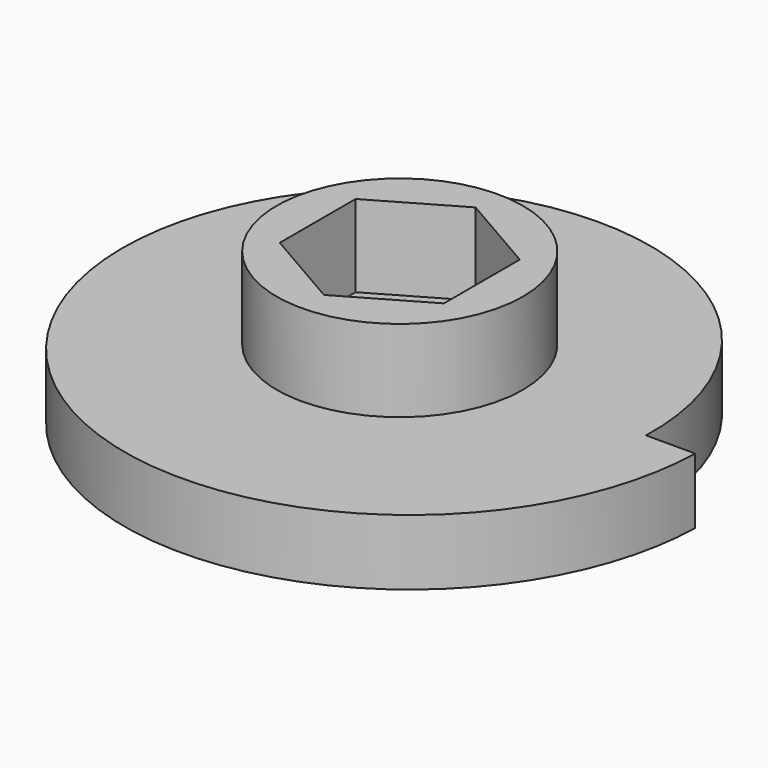
from build123d import *

# Parameters (mm, degrees)
PAD_DEPTH    = 8
SKETCH019_R  = 15
PAD010_DEPTH = 10
SKETCH020_R  = 3.2
POCKET_DEPTH = 18.001


with BuildPart() as part:
    # Sketch018 → Pad (new body)
    with BuildSketch(Plane.XY):
        with BuildLine():
            add(Edge.make_bspline(
                [(30, 0), (30.272727, 8.56798), (27.853744, 17.307319), (22.653329, 25.278439), (14.950718, 31.494746), (5.420543, 35.088391), (-4.927781, 35.491962), (-14.908573, 32.583746), (-23.388897, 26.726717), (-29.493664, 18.678196), (-32.727273, 9.424778), (-33.272727, -9.424778), (-30.584573, -19.020915), (-24.845816, -27.754875), (-16.372589, -34.546103), (-5.913321, -38.44936), (5.420559, -38.852932), (16.330444, -35.635102), (25.581384, -29.203153), (32.224493, -20.391792), (35.727273, -10.281576), (36, 0)],
                knots=[0, 0, 0, 0, 0, 0, 0, 0, 0, 0, 0, 0, 3.181133, 3.181133, 3.181133, 3.181133, 3.181133, 3.181133, 3.181133, 3.181133, 3.181133, 3.181133, 6.362265, 6.362265, 6.362265, 6.362265, 6.362265, 6.362265, 6.362265, 6.362265, 6.362265, 6.362265, 6.362265, 6.362265], degree=11))
            Line((36, 0), (30, 0))
        make_face()
    extrude(amount=PAD_DEPTH)

    # Sketch019 (on Face4 of Pad) → Pad010 (join)
    with BuildSketch(Plane.XY.offset(8)):
        Circle(SKETCH019_R)
        Polygon((0, -11.547005), (10, -5.773503), (10, 5.773503), (0, 11.547005), (-10, 5.773503), (-10, -5.773503), align=None, mode=Mode.SUBTRACT)
    extrude(amount=PAD010_DEPTH)

    # Sketch020 (on Face3 of Pad010) → Pocket (cut, through all)
    with BuildSketch(Plane(origin=(0, 0, 0), x_dir=(1, 0, 0), z_dir=(0, 0, -1))):
        Circle(SKETCH020_R)
    extrude(amount=-POCKET_DEPTH, mode=Mode.SUBTRACT)


with BuildPart() as part_1:
    # Body005 placement: moved
    add(part.part.moved(Location((0, 0, -16))))


solid = part_1.part
